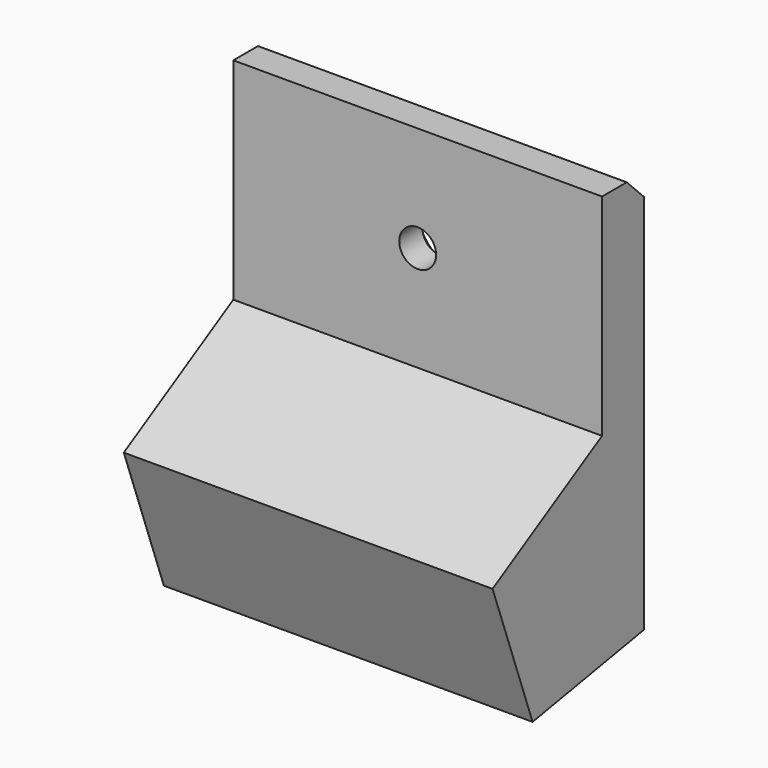
from build123d import *

# Parameters (mm, degrees)
PAD_DEPTH        = 17.5
HOLE_D           = 3.5
HOLE_CSINK_D     = 8
HOLE_CSINK_ANGLE = 90


with BuildPart() as part:
    # Sketch → Pad (new body, symmetric)
    with BuildSketch(Plane.YZ):
        Polygon((34.641016, 32), (47.631397, 39.5), (47.631397, 59.5), (50.560329, 59.5), (52.631397, 57.428932), (52.631397, 21.280335), (39.39231, 18.945927), align=None)
    extrude(amount=PAD_DEPTH, both=True)

    # Hole (through all)
    with Locations(Plane.ZX.offset(52.631397)):
        with Locations((49.5, 0)):
            CounterSinkHole(HOLE_D / 2, HOLE_CSINK_D / 2, counter_sink_angle=HOLE_CSINK_ANGLE)


solid = part.part
